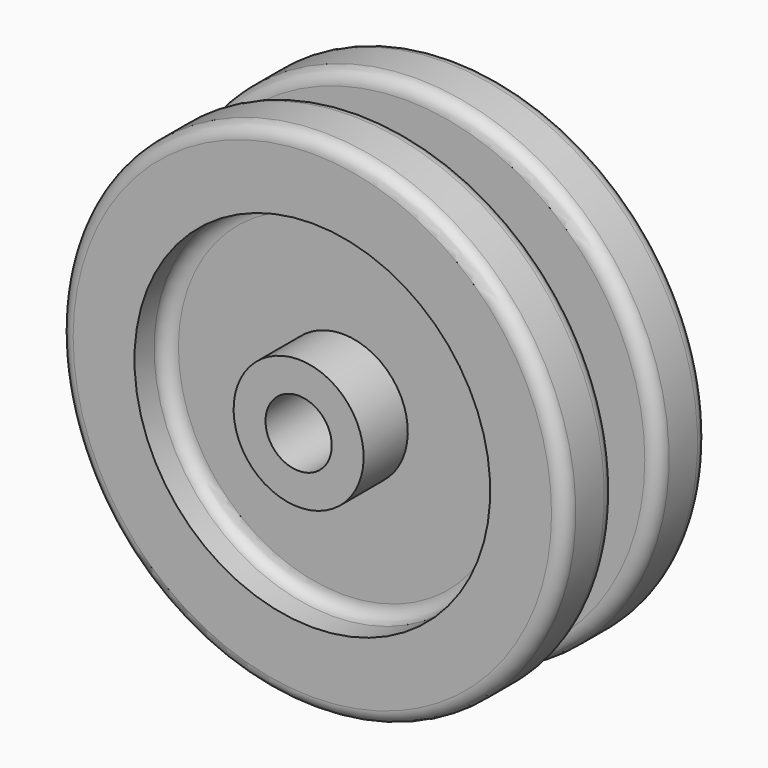
from build123d import *


with BuildPart() as f1:
    # F0 (on Right) → F1 (revolve)
    with BuildSketch(Plane.YZ):
        with BuildLine():
            Line((-20.089092, 6.234545), (0, 6.234545))
            Line((0, 6.234545), (20.089092, 6.234545))
            Line((20.089092, 6.234545), (20.089092, 12.238182))
            Line((20.089092, 12.238182), (9.698182, 12.238182))
            Line((9.698182, 12.238182), (9.698182, 33.481818))
            Line((9.698182, 33.481818), (14.316363, 33.481818))
            ThreePointArc((14.316363, 33.481818), (16.112414, 34.225766), (16.856363, 36.021818))
            Line((16.856363, 36.021818), (16.856363, 45.027271))
            ThreePointArc((16.856363, 45.027271), (16.112414, 46.823322), (14.316363, 47.567271))
            Line((14.316363, 47.567271), (7.62, 47.567271))
            ThreePointArc((7.62, 47.567271), (5.823949, 46.823322), (5.08, 45.027271))
            Line((5.08, 45.027271), (5.08, 33.481818))
            Line((5.08, 33.481818), (0, 33.481818))
            Line((0, 33.481818), (-5.08, 33.481818))
            Line((-5.08, 33.481818), (-5.08, 45.027271))
            ThreePointArc((-5.08, 45.027271), (-5.823949, 46.823322), (-7.62, 47.567271))
            Line((-7.62, 47.567271), (-14.316363, 47.567271))
            ThreePointArc((-14.316363, 47.567271), (-16.112414, 46.823322), (-16.856363, 45.027271))
            Line((-16.856363, 45.027271), (-16.856363, 33.481818))
            Line((-16.856363, 33.481818), (-12.238182, 33.481818))
            ThreePointArc((-12.238182, 33.481818), (-10.442131, 32.737869), (-9.698182, 30.941818))
            Line((-9.698182, 30.941818), (-9.698182, 12.238182))
            Line((-9.698182, 12.238182), (-20.089092, 12.238182))
            Line((-20.089092, 12.238182), (-20.089092, 6.234545))
        make_face()
    revolve(axis=Axis((0, -1.039088, 0), (0, 1, 0)))


solid = f1.part
